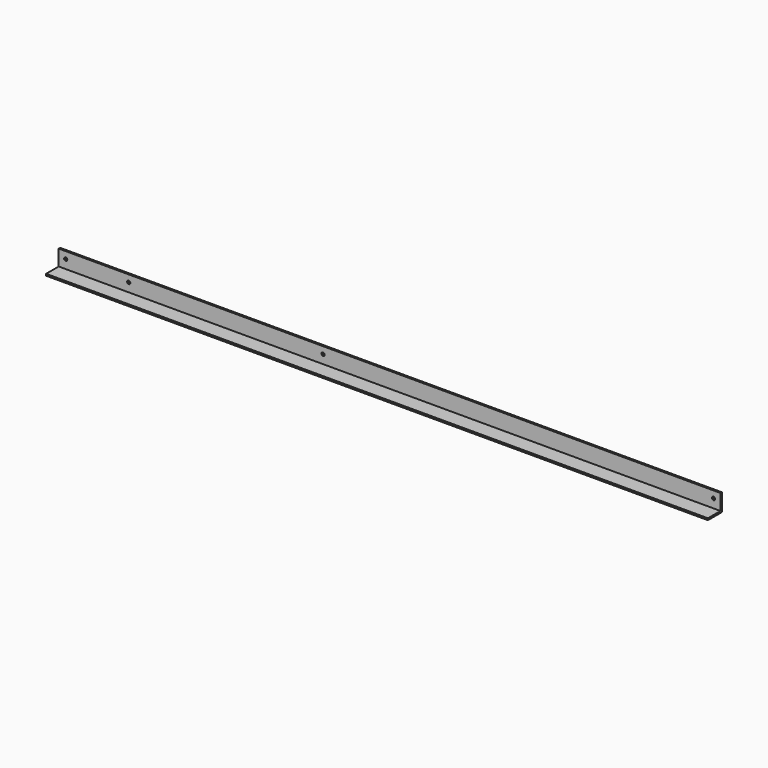
from build123d import *

# Parameters (mm, degrees)
F0_W     = 45
F0_H     = 5
F0_W_2   = 5
F0_H_2   = 45
F1_DEPTH = 945
F2_W     = 1890
F2_H     = 45
F3_DEPTH = 5
F4_D     = 9


with BuildPart() as f1:
    # F0 (on Right) → F1 (new body, symmetric)
    with BuildSketch(Plane.YZ):
        with Locations((-27.5, 2.5)):
            Rectangle(F0_W, F0_H)
        with Locations((-2.5, 2.5)):
            Rectangle(F0_W_2, F0_H)
        with Locations((-2.5, 27.5)):
            Rectangle(F0_W_2, F0_H_2)
    extrude(amount=F1_DEPTH, both=True)

    # F2 (on face) → F3 (join)
    with BuildSketch(Plane.XZ.offset(5)):
        with Locations((0, 27.5)):
            Rectangle(F2_W, F2_H)
    extrude(amount=-F3_DEPTH)

    # F4 (through all)
    with Locations(Plane.XZ.offset(5)):
        with Locations((-925, 30), (-745, 30), (-190, 30), (925, 30)):
            Hole(F4_D / 2)


solid = f1.part
